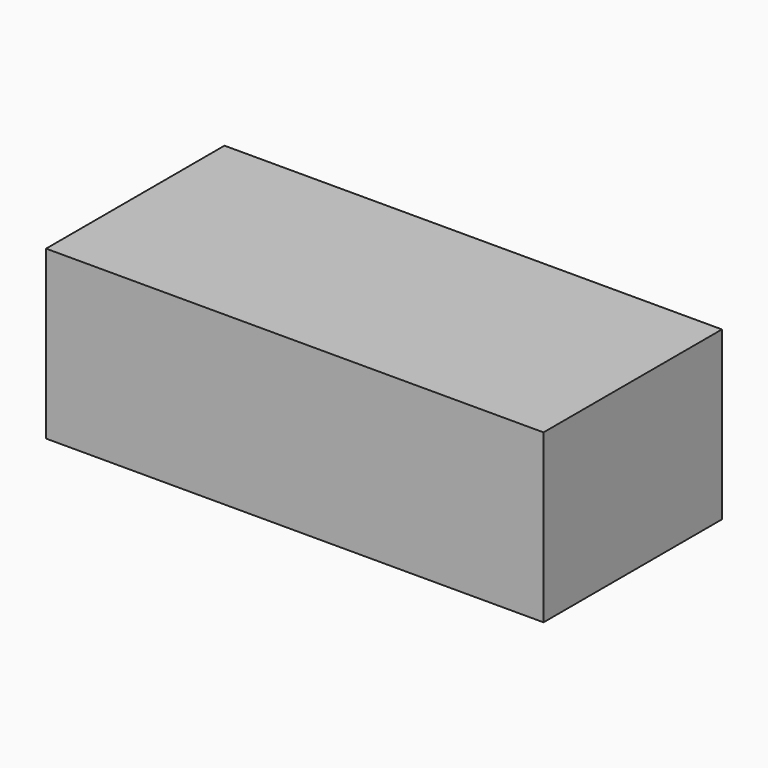
from build123d import *

# Parameters (mm, degrees)
F0_W     = 2900
F0_H     = 1300
F1_DEPTH = 975
F2_T     = -5
F4_DEPTH = 100
F5_DEPTH = 326


with BuildPart() as f1:
    # F0 (on Top) → F1 (new body)
    with BuildSketch(Plane.XY):
        with Locations((1405.6350782514, 634.1229822487)):
            Rectangle(F0_W, F0_H)
    extrude(amount=F1_DEPTH)

    # F2 (hollow: no face is removed)
    offset(amount=F2_T, mode=Mode.SUBTRACT)

    # F3 (on face) → F5 (cut)
    with BuildSketch(Plane(origin=(0, 1284.1229822487, 0), x_dir=(-1, 0, 0), z_dir=(0, 1, 0))):
        with BuildLine():
            ThreePointArc((-1811.6350782514, 650), (-1973.5625311431, 582.9274528917), (-2040.6350782514, 421))
            Line((-2040.6350782514, 421), (-1811.6350782514, 421))
            Line((-1811.6350782514, 421), (-1811.6350782514, 650))
        make_face()
        with BuildLine():
            ThreePointArc((-999.6350782514, 650), (-1161.5625311431, 582.9274528917), (-1228.6350782514, 421))
            Line((-1228.6350782514, 421), (-999.6350782514, 421))
            Line((-999.6350782514, 421), (-999.6350782514, 650))
        make_face()
        with BuildLine():
            Line((-999.6350782514, 421), (-1228.6350782514, 421))
            ThreePointArc((-1228.6350782514, 421), (-1161.5625311431, 259.0725471083), (-999.6350782514, 192))
            Line((-999.6350782514, 192), (-999.6350782514, 421))
        make_face()
        with BuildLine():
            Line((-1811.6350782514, 421), (-2040.6350782514, 421))
            ThreePointArc((-2040.6350782514, 421), (-1973.5625311431, 259.0725471083), (-1811.6350782514, 192))
            Line((-1811.6350782514, 192), (-1811.6350782514, 421))
        make_face()
        with BuildLine():
            Line((-1811.6350782514, 650), (-1811.6350782514, 421))
            Line((-1811.6350782514, 421), (-1582.6350782514, 421))
            ThreePointArc((-1582.6350782514, 421), (-1649.7076253596, 582.9274528917), (-1811.6350782514, 650))
        make_face()
        with BuildLine():
            Line((-1582.6350782514, 421), (-1811.6350782514, 421))
            Line((-1811.6350782514, 421), (-1811.6350782514, 192))
            ThreePointArc((-1811.6350782514, 192), (-1649.7076253596, 259.0725471083), (-1582.6350782514, 421))
        make_face()
        with BuildLine():
            Line((-999.6350782514, 650), (-999.6350782514, 421))
            Line((-999.6350782514, 421), (-770.6350782514, 421))
            ThreePointArc((-770.6350782514, 421), (-837.7076253596, 582.9274528917), (-999.6350782514, 650))
        make_face()
        with BuildLine():
            Line((-770.6350782514, 421), (-999.6350782514, 421))
            Line((-999.6350782514, 421), (-999.6350782514, 192))
            ThreePointArc((-999.6350782514, 192), (-837.7076253596, 259.0725471083), (-770.6350782514, 421))
        make_face()
    extrude(amount=-F5_DEPTH, mode=Mode.SUBTRACT)


with BuildPart() as f4:
    # F3 (on face) → F4 (new body)
    with BuildSketch(Plane(origin=(0, 1284.1229822487, 0), x_dir=(-1, 0, 0), z_dir=(0, 1, 0))):
        with BuildLine():
            Line((-1811.6350782514, 192), (-1811.6350782514, 421))
            Line((-1811.6350782514, 421), (-2040.6350782514, 421))
            ThreePointArc((-2040.6350782514, 421), (-1973.5625311431, 259.0725471083), (-1811.6350782514, 192))
        make_face()
        with BuildLine():
            Line((-2040.6350782514, 421), (-1811.6350782514, 421))
            Line((-1811.6350782514, 421), (-1811.6350782514, 650))
            ThreePointArc((-1811.6350782514, 650), (-1973.5625311431, 582.9274528917), (-2040.6350782514, 421))
        make_face()
        with BuildLine():
            Line((-1811.6350782514, 421), (-1582.6350782514, 421))
            ThreePointArc((-1582.6350782514, 421), (-1649.7076253596, 582.9274528917), (-1811.6350782514, 650))
            Line((-1811.6350782514, 650), (-1811.6350782514, 421))
        make_face()
        with BuildLine():
            ThreePointArc((-1811.6350782514, 192), (-1649.7076253596, 259.0725471083), (-1582.6350782514, 421))
            Line((-1582.6350782514, 421), (-1811.6350782514, 421))
            Line((-1811.6350782514, 421), (-1811.6350782514, 192))
        make_face()
    extrude(amount=F4_DEPTH)


with BuildPart() as f4b:
    # F3 (on face) → F4, piece 2 (new body)
    with BuildSketch(Plane(origin=(0, 1284.1229822487, 0), x_dir=(-1, 0, 0), z_dir=(0, 1, 0))):
        with BuildLine():
            Line((-999.6350782514, 192), (-999.6350782514, 421))
            Line((-999.6350782514, 421), (-1228.6350782514, 421))
            ThreePointArc((-1228.6350782514, 421), (-1161.5625311431, 259.0725471083), (-999.6350782514, 192))
        make_face()
        with BuildLine():
            Line((-1228.6350782514, 421), (-999.6350782514, 421))
            Line((-999.6350782514, 421), (-999.6350782514, 650))
            ThreePointArc((-999.6350782514, 650), (-1161.5625311431, 582.9274528917), (-1228.6350782514, 421))
        make_face()
        with BuildLine():
            Line((-999.6350782514, 421), (-770.6350782514, 421))
            ThreePointArc((-770.6350782514, 421), (-837.7076253596, 582.9274528917), (-999.6350782514, 650))
            Line((-999.6350782514, 650), (-999.6350782514, 421))
        make_face()
        with BuildLine():
            ThreePointArc((-999.6350782514, 192), (-837.7076253596, 259.0725471083), (-770.6350782514, 421))
            Line((-770.6350782514, 421), (-999.6350782514, 421))
            Line((-999.6350782514, 421), (-999.6350782514, 192))
        make_face()
    extrude(amount=F4_DEPTH)


solid = Compound([f1.part, f4.part, f4b.part])
